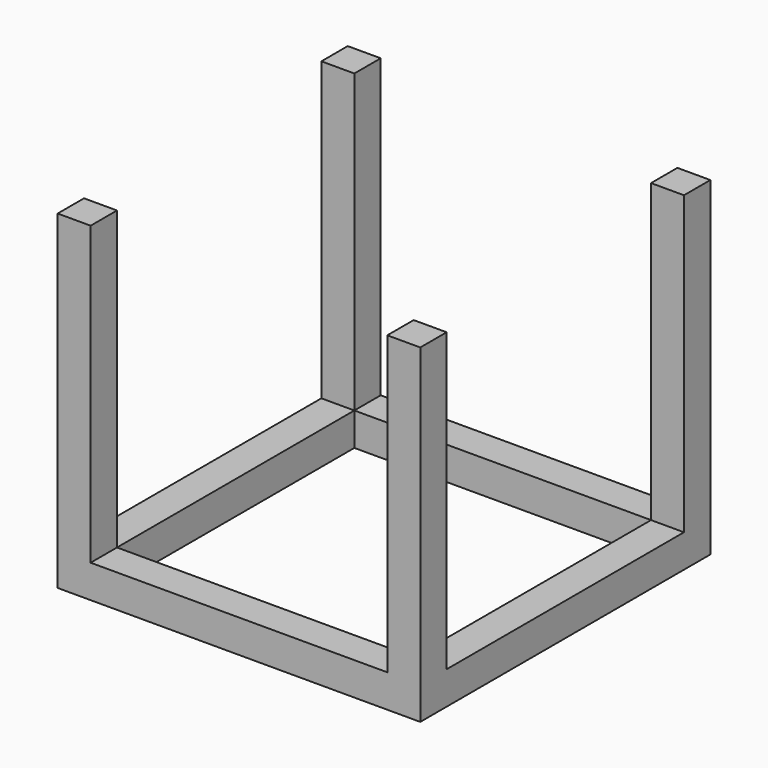
from build123d import *

# Parameters (mm, degrees)
F0_W     = 1117.6
F0_H     = 1117.6
F0_W_2   = 914.4
F0_H_2   = 914.4
F1_DEPTH = 101.6
F2_W     = 101.6
F2_H     = 101.6
F3_DEPTH = 914.4


with BuildPart() as f1:
    # F0 (on Top) → F1 (new body)
    with BuildSketch(Plane.XY):
        Rectangle(F0_W, F0_H)
        Rectangle(F0_W_2, F0_H_2, mode=Mode.SUBTRACT)
    extrude(amount=F1_DEPTH)

    # F2 (on face) → F3 (join)
    with BuildSketch(Plane.XY.offset(101.6)):
        with Locations((-508, 508)):
            Rectangle(F2_W, F2_H)
        with Locations((508, 508)):
            Rectangle(F2_W, F2_H)
        with Locations((508, -508)):
            Rectangle(F2_W, F2_H)
        with Locations((-508, -508)):
            Rectangle(F2_W, F2_H)
    extrude(amount=F3_DEPTH)


solid = f1.part
